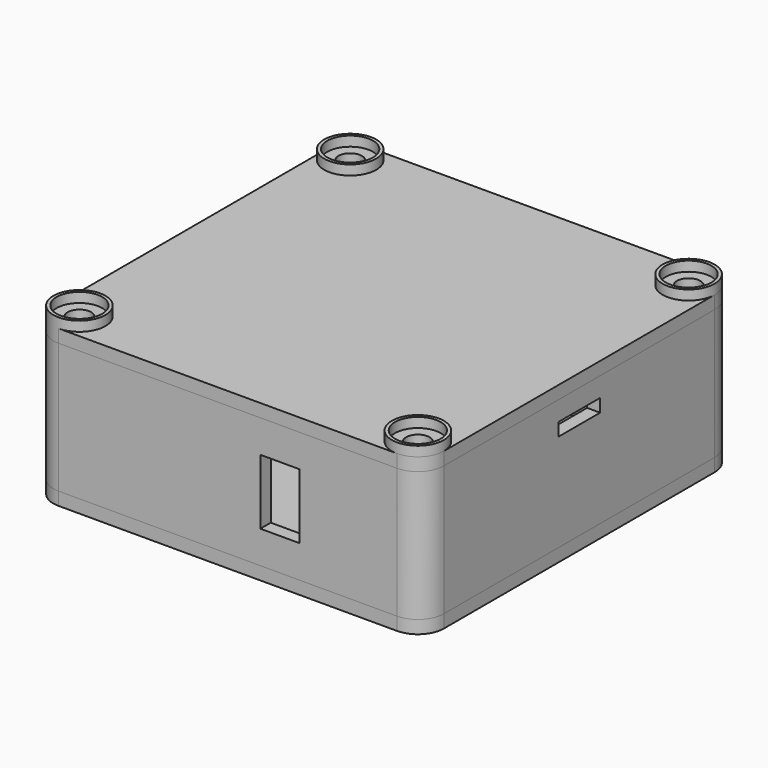
from build123d import *

# Parameters (mm, degrees)
SKETCH_W        = 48.4
SKETCH_H        = 25.5
SKETCH_R        = 1.6
PAD007_DEPTH    = 1.6
SKETCH001_W     = 60
SKETCH001_H     = 60
PAD_DEPTH       = 2
FILLET002_R     = 4
SKETCH008_R     = 3
SKETCH008_R_2   = 1.4
PAD008_DEPTH    = 10
SKETCH002_W     = 60
SKETCH002_H     = 60
SKETCH002_W_2   = 56
SKETCH002_H_2   = 56
PAD006_DEPTH    = 20
FILLET_R        = 4
SKETCH003_R     = 5.7
POCKET_DEPTH    = 2
SKETCH009_W     = 10
SKETCH009_H     = 3
POCKET001_DEPTH = 2
SKETCH010_W     = 8
SKETCH010_H     = 2
POCKET002_DEPTH = 2
SKETCH011_W     = 6
SKETCH011_H     = 10
POCKET003_DEPTH = 2
SKETCH005_R     = 3.8
SKETCH005_R_2   = 1.8
PAD003_DEPTH    = 20
SKETCH006_R     = 3.8
SKETCH006_R_2   = 1.8
PAD004_DEPTH    = 20
SKETCH007_R     = 3.8
SKETCH007_R_2   = 1.8
PAD005_DEPTH    = 20
SKETCH004_R     = 3.8
SKETCH004_R_2   = 1.8
PAD002_DEPTH    = 20
SKETCH012_W     = 60
SKETCH012_H     = 60
SKETCH012_R     = 1.8
PAD009_DEPTH    = 2
FILLET003_R     = 4
SKETCH013_R     = 4
SKETCH013_R_2   = 3.5
PAD010_DEPTH    = 1.5


with BuildPart() as esp:
    # Sketch → Pad007 (new body)
    with BuildSketch(Plane.XY.offset(12)):
        with Locations((26.7, 37.75)):
            Rectangle(SKETCH_W, SKETCH_H)
        with Locations((5.1, 47.9)):
            Circle(SKETCH_R, mode=Mode.SUBTRACT)
        with Locations((5.1, 27.6)):
            Circle(SKETCH_R, mode=Mode.SUBTRACT)
        with Locations((48.3, 47.9)):
            Circle(SKETCH_R, mode=Mode.SUBTRACT)
        with Locations((48.3, 27.6)):
            Circle(SKETCH_R, mode=Mode.SUBTRACT)
    extrude(amount=PAD007_DEPTH)


with BuildPart() as bottombox:
    # Sketch001 → Pad (new body)
    with BuildSketch(Plane.XY):
        with Locations((30, 30)):
            Rectangle(SKETCH001_W, SKETCH001_H)
    extrude(amount=PAD_DEPTH)

    # Fillet002
    fillet002_edges = [bottombox.edges().sort_by_distance(p)[0] for p in [
        (0, 0, 1),
        (0, 60, 1),
        (60, 60, 1),
        (60, 0, 1),
    ]]
    fillet(fillet002_edges, radius=FILLET002_R)

    # Sketch008 → Pad008 (join)
    with BuildSketch(Plane.XY.offset(2)):
        with Locations((5.1, 47.9)):
            Circle(SKETCH008_R)
        with Locations((5.1, 47.9)):
            Circle(SKETCH008_R_2, mode=Mode.SUBTRACT)
        with Locations((48.3, 47.9)):
            Circle(SKETCH008_R)
        with Locations((48.3, 47.9)):
            Circle(SKETCH008_R_2, mode=Mode.SUBTRACT)
        with Locations((48.3, 27.6)):
            Circle(SKETCH008_R)
        with Locations((48.3, 27.6)):
            Circle(SKETCH008_R_2, mode=Mode.SUBTRACT)
        with Locations((5.1, 27.6)):
            Circle(SKETCH008_R)
        with Locations((5.1, 27.6)):
            Circle(SKETCH008_R_2, mode=Mode.SUBTRACT)
    extrude(amount=PAD008_DEPTH)


with BuildPart() as boxsides:
    # Sketch002 → Pad006 (new body)
    with BuildSketch(Plane.XY):
        with Locations((30, 30)):
            Rectangle(SKETCH002_W, SKETCH002_H)
        with Locations((30, 30)):
            Rectangle(SKETCH002_W_2, SKETCH002_H_2, mode=Mode.SUBTRACT)
    extrude(amount=PAD006_DEPTH)

    # Fillet
    fillet_edges = [boxsides.edges().sort_by_distance(p)[0] for p in [
        (0, 0, 10),
        (60, 0, 10),
        (0, 60, 10),
        (60, 60, 10),
    ]]
    fillet(fillet_edges, radius=FILLET_R)

    # Sketch003 → Pocket (cut)
    with BuildSketch(Plane.YZ):
        with Locations((16, 10)):
            Circle(SKETCH003_R)
    extrude(amount=POCKET_DEPTH, mode=Mode.SUBTRACT)

    # Sketch009 → Pocket001 (cut)
    with BuildSketch(Plane.YZ):
        with Locations((37.75, 13.1)):
            Rectangle(SKETCH009_W, SKETCH009_H)
    extrude(amount=POCKET001_DEPTH, mode=Mode.SUBTRACT)

    # Sketch010 → Pocket002 (cut)
    with BuildSketch(Plane.YZ.offset(60)):
        with Locations((30, 16)):
            Rectangle(SKETCH010_W, SKETCH010_H)
    extrude(amount=-POCKET002_DEPTH, mode=Mode.SUBTRACT)

    # Sketch011 → Pocket003 (cut)
    with BuildSketch(Plane.XZ):
        with Locations((38, 10)):
            Rectangle(SKETCH011_W, SKETCH011_H)
    extrude(amount=-POCKET003_DEPTH, mode=Mode.SUBTRACT)


with BuildPart() as boxsides_1:
    # Body002 placement: moved
    add(boxsides.part.moved(Location((0, 0, 2))))


with BuildPart() as body004:
    # Sketch005 → Pad003 (new body)
    with BuildSketch(Plane.XY.offset(2)):
        with Locations((56, 4)):
            Circle(SKETCH005_R)
        with Locations((56, 4)):
            Circle(SKETCH005_R_2, mode=Mode.SUBTRACT)
    extrude(amount=PAD003_DEPTH)


with BuildPart() as body005:
    # Sketch006 → Pad004 (new body)
    with BuildSketch(Plane.XY.offset(2)):
        with Locations((4, 56)):
            Circle(SKETCH006_R)
        with Locations((4, 56)):
            Circle(SKETCH006_R_2, mode=Mode.SUBTRACT)
    extrude(amount=PAD004_DEPTH)


with BuildPart() as body006:
    # Sketch007 → Pad005 (new body)
    with BuildSketch(Plane.XY.offset(2)):
        with Locations((56, 56)):
            Circle(SKETCH007_R)
        with Locations((56, 56)):
            Circle(SKETCH007_R_2, mode=Mode.SUBTRACT)
    extrude(amount=PAD005_DEPTH)


with BuildPart() as body003:
    # Sketch004 → Pad002 (new body)
    with BuildSketch(Plane.XY.offset(2)):
        with Locations((4, 4)):
            Circle(SKETCH004_R)
        with Locations((4, 4)):
            Circle(SKETCH004_R_2, mode=Mode.SUBTRACT)
    extrude(amount=PAD002_DEPTH)


with BuildPart() as top:
    # Sketch012 → Pad009 (new body)
    with BuildSketch(Plane.XY.offset(22)):
        with Locations((30, 30)):
            Rectangle(SKETCH012_W, SKETCH012_H)
        with Locations((4, 4)):
            Circle(SKETCH012_R, mode=Mode.SUBTRACT)
        with Locations((56, 4)):
            Circle(SKETCH012_R, mode=Mode.SUBTRACT)
        with Locations((56, 56)):
            Circle(SKETCH012_R, mode=Mode.SUBTRACT)
        with Locations((4, 56)):
            Circle(SKETCH012_R, mode=Mode.SUBTRACT)
    extrude(amount=PAD009_DEPTH)

    # Fillet003
    fillet003_edges = [top.edges().sort_by_distance(p)[0] for p in [
        (0, 0, 23),
        (0, 60, 23),
        (60, 60, 23),
        (60, 0, 23),
    ]]
    fillet(fillet003_edges, radius=FILLET003_R)

    # Sketch013 → Pad010 (join)
    with BuildSketch(Plane.XY.offset(24)):
        with Locations((4, 4)):
            Circle(SKETCH013_R)
        with Locations((4, 4)):
            Circle(SKETCH013_R_2, mode=Mode.SUBTRACT)
        with Locations((56, 4)):
            Circle(SKETCH013_R)
        with Locations((56, 4)):
            Circle(SKETCH013_R_2, mode=Mode.SUBTRACT)
        with Locations((4, 56)):
            Circle(SKETCH013_R)
        with Locations((4, 56)):
            Circle(SKETCH013_R_2, mode=Mode.SUBTRACT)
        with Locations((56, 56)):
            Circle(SKETCH013_R)
        with Locations((56, 56)):
            Circle(SKETCH013_R_2, mode=Mode.SUBTRACT)
    extrude(amount=PAD010_DEPTH)


solid = Compound([esp.part, bottombox.part, boxsides_1.part, body004.part, body005.part, body006.part, body003.part, top.part])
